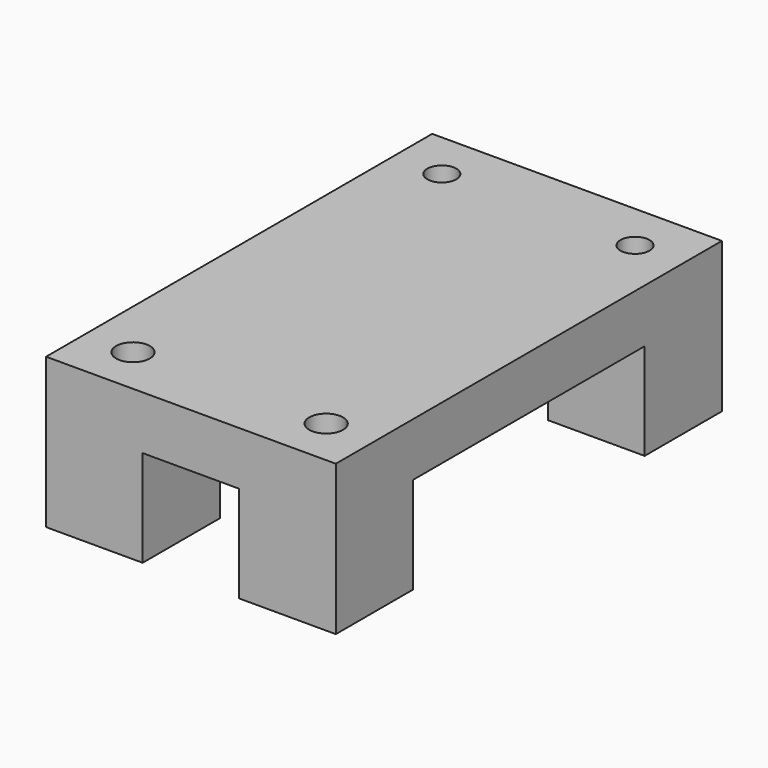
from build123d import *

# Parameters (mm, degrees)
F1_DEPTH  = 10
F2_R      = 1.5
F3_DEPTH  = 16
F5_W      = 30
F5_H      = 29.9720647931
F5_H_2    = 10
F5_R      = 1.5
F6_DEPTH  = 5.53592
F7_W      = 10
F7_H      = 10
F8_DEPTH  = 10
F9_R      = 1.75
F10_DEPTH = 25


with BuildPart() as f1:
    # F0 (on Front) → F1 (new body)
    with BuildSketch(Plane.XZ):
        Polygon((-5, 5), (5, 5), (5, -5), (15, -5), (15, 5), (15, 7.7369394712), (15, 10.5359181762), (10.6142175943, 10.5359181762), (0, 10.5359181762), (-10.6142175943, 10.5359181762), (-15, 10.5359181762), (-15, 7.7369394712), (-15, 5), (-15, -5), (-5, -5), align=None)
    extrude(amount=F1_DEPTH)

    # F2 (on face) → F3 (cut)
    with BuildSketch(Plane(origin=(0, 0, -5), x_dir=(1, 0, 0), z_dir=(0, 0, -1))):
        with Locations((10, 5)):
            Circle(F2_R)
        with Locations((-10, 5)):
            Circle(F2_R)
    extrude(amount=-F3_DEPTH, mode=Mode.SUBTRACT)

    # F5 (on face) → F6 (join)
    with BuildSketch(Plane.XY.offset(10.5359181762)):
        with Locations((0, -24.9860323966)):
            Rectangle(F5_W, F5_H)
        with Locations((0, -44.9720647931)):
            Rectangle(F5_W, F5_H_2)
        with Locations((-10, -44.9720647931)):
            Circle(F5_R, mode=Mode.SUBTRACT)
        with Locations((10, -44.9720647931)):
            Circle(F5_R, mode=Mode.SUBTRACT)
    extrude(amount=-F6_DEPTH)

    # F7 (on face) → F8 (join)
    with BuildSketch(Plane(origin=(0, 0, 5), x_dir=(1, 0, 0), z_dir=(0, 0, -1))):
        with Locations((10, 44.9720647931)):
            Rectangle(F7_W, F7_H)
        with Locations((-10, 44.9720647931)):
            Rectangle(F7_W, F7_H)
    extrude(amount=F8_DEPTH)

    # F9 (on face) → F10 (cut)
    with BuildSketch(Plane(origin=(0, 0, -5), x_dir=(1, 0, 0), z_dir=(0, 0, -1))):
        with Locations((-10, 44.9720647931)):
            Circle(F9_R)
        with Locations((10, 44.9720647931)):
            Circle(F9_R)
    extrude(amount=-F10_DEPTH, mode=Mode.SUBTRACT)


solid = f1.part
